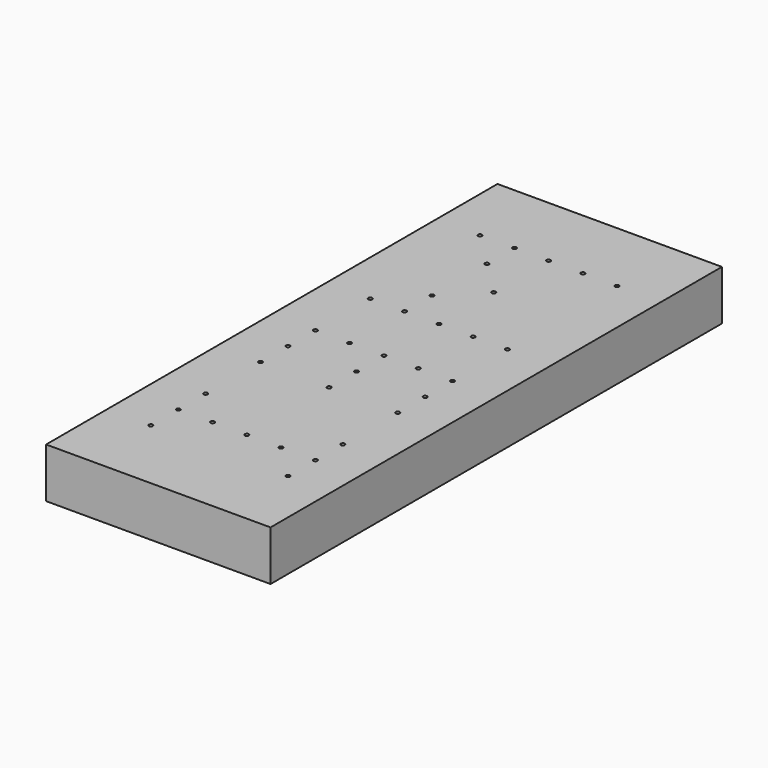
from build123d import *

# Parameters (mm, degrees)
F0_W     = 114.3
F0_H     = 287.3375
F1_DEPTH = 25.4


with BuildPart() as f1:
    # F0 (on Top) → F1 (new body)
    with BuildSketch(Plane.XY):
        with Locations((-34.925, 47.539747)):
            Rectangle(F0_W, F0_H)
        with BuildLine():
            ThreePointArc((-68.834, -57.235253), (-70.56842, -57.953674), (-69.85, -56.219253))
            ThreePointArc((-69.85, -56.219253), (-69.13158, -56.516833), (-68.834, -57.235253))
        make_face(mode=Mode.SUBTRACT)
        with BuildLine():
            ThreePointArc((-69.85, -38.756753), (-69.13158, -39.054333), (-68.834, -39.772753))
            ThreePointArc((-68.834, -39.772753), (-69.13158, -40.491174), (-69.85, -40.788753))
            ThreePointArc((-69.85, -40.788753), (-70.866, -39.772753), (-69.85, -38.756753))
        make_face(mode=Mode.SUBTRACT)
        with BuildLine():
            ThreePointArc((-51.3715, -39.772753), (-52.3875, -40.788753), (-53.4035, -39.772753))
            ThreePointArc((-53.4035, -39.772753), (-52.3875, -38.756753), (-51.3715, -39.772753))
        make_face(mode=Mode.SUBTRACT)
        with BuildLine():
            ThreePointArc((-68.834, -22.310253), (-69.13158, -23.028674), (-69.85, -23.326253))
            ThreePointArc((-69.85, -23.326253), (-70.56842, -21.591833), (-68.834, -22.310253))
        make_face(mode=Mode.SUBTRACT)
        with BuildLine():
            ThreePointArc((-68.834, 12.614747), (-70.56842, 11.896326), (-69.85, 13.630747))
            ThreePointArc((-69.85, 13.630747), (-69.13158, 13.333167), (-68.834, 12.614747))
        make_face(mode=Mode.SUBTRACT)
        with BuildLine():
            ThreePointArc((-69.85, 29.061247), (-70.866, 30.077247), (-69.85, 31.093247))
            ThreePointArc((-69.85, 31.093247), (-69.13158, 30.795667), (-68.834, 30.077247))
            ThreePointArc((-68.834, 30.077247), (-69.13158, 29.358826), (-69.85, 29.061247))
        make_face(mode=Mode.SUBTRACT)
        with BuildLine():
            ThreePointArc((-33.909, -39.772753), (-34.925, -40.788753), (-35.941, -39.772753))
            ThreePointArc((-35.941, -39.772753), (-34.925, -38.756753), (-33.909, -39.772753))
        make_face(mode=Mode.SUBTRACT)
        with BuildLine():
            ThreePointArc((-16.4465, -39.772753), (-17.4625, -40.788753), (-18.4785, -39.772753))
            ThreePointArc((-18.4785, -39.772753), (-17.4625, -38.756753), (-16.4465, -39.772753))
        make_face(mode=Mode.SUBTRACT)
        with BuildLine():
            ThreePointArc((1.016, -57.235253), (-0.71842, -57.953674), (0, -56.219253))
            ThreePointArc((0, -56.219253), (0.71842, -56.516833), (1.016, -57.235253))
        make_face(mode=Mode.SUBTRACT)
        with BuildLine():
            ThreePointArc((0, -40.788753), (-0.71842, -40.491174), (-1.016, -39.772753))
            ThreePointArc((-1.016, -39.772753), (-0.71842, -39.054333), (0, -38.756753))
            ThreePointArc((0, -38.756753), (0.71842, -39.054333), (1.016, -39.772753))
            ThreePointArc((1.016, -39.772753), (0.71842, -40.491174), (0, -40.788753))
        make_face(mode=Mode.SUBTRACT)
        with BuildLine():
            ThreePointArc((-33.909, 12.614747), (-35.64342, 11.896326), (-34.925, 13.630747))
            ThreePointArc((-34.925, 13.630747), (-34.20658, 13.333167), (-33.909, 12.614747))
        make_face(mode=Mode.SUBTRACT)
        with BuildLine():
            ThreePointArc((-34.925, 29.061247), (-35.941, 30.077247), (-34.925, 31.093247))
            ThreePointArc((-34.925, 31.093247), (-34.20658, 30.795667), (-33.909, 30.077247))
            ThreePointArc((-33.909, 30.077247), (-34.20658, 29.358826), (-34.925, 29.061247))
        make_face(mode=Mode.SUBTRACT)
        with BuildLine():
            ThreePointArc((1.016, -22.310253), (0.71842, -23.028674), (0, -23.326253))
            ThreePointArc((0, -23.326253), (-0.71842, -21.591833), (1.016, -22.310253))
        make_face(mode=Mode.SUBTRACT)
        with BuildLine():
            ThreePointArc((1.016, 12.614747), (-0.71842, 11.896326), (0, 13.630747))
            ThreePointArc((0, 13.630747), (0.71842, 13.333167), (1.016, 12.614747))
        make_face(mode=Mode.SUBTRACT)
        with BuildLine():
            ThreePointArc((0, 29.061247), (-1.016, 30.077247), (0, 31.093247))
            ThreePointArc((0, 31.093247), (0.71842, 30.795667), (1.016, 30.077247))
            ThreePointArc((1.016, 30.077247), (0.71842, 29.358826), (0, 29.061247))
        make_face(mode=Mode.SUBTRACT)
        with BuildLine():
            ThreePointArc((-69.85, 46.523747), (-70.56842, 48.258167), (-68.834, 47.539747))
            ThreePointArc((-68.834, 47.539747), (-69.13158, 46.821326), (-69.85, 46.523747))
        make_face(mode=Mode.SUBTRACT)
        with BuildLine():
            ThreePointArc((-68.834, 82.464747), (-70.788662, 82.07594), (-69.13158, 83.183167))
            ThreePointArc((-69.13158, 83.183167), (-68.911338, 82.853553), (-68.834, 82.464747))
        make_face(mode=Mode.SUBTRACT)
        with BuildLine():
            ThreePointArc((-53.4035, 47.539747), (-52.3875, 48.555747), (-51.3715, 47.539747))
            ThreePointArc((-51.3715, 47.539747), (-52.3875, 46.523747), (-53.4035, 47.539747))
        make_face(mode=Mode.SUBTRACT)
        with BuildLine():
            ThreePointArc((-51.3715, 82.464747), (-52.3875, 81.448747), (-53.4035, 82.464747))
            ThreePointArc((-53.4035, 82.464747), (-52.3875, 83.480747), (-51.3715, 82.464747))
        make_face(mode=Mode.SUBTRACT)
        with BuildLine():
            ThreePointArc((-53.105917, 99.208829), (-53.105917, 100.64567), (-51.669076, 100.64567))
            ThreePointArc((-51.669076, 100.64567), (-51.448835, 100.316056), (-51.371497, 99.92725))
            ThreePointArc((-51.371497, 99.92725), (-51.99869, 98.988588), (-53.105917, 99.208829))
        make_face(mode=Mode.SUBTRACT)
        with BuildLine():
            ThreePointArc((-69.13158, 151.596326), (-70.788662, 152.703553), (-68.834, 152.314747))
            ThreePointArc((-68.834, 152.314747), (-68.911338, 151.92594), (-69.13158, 151.596326))
        make_face(mode=Mode.SUBTRACT)
        with BuildLine():
            ThreePointArc((-51.669076, 134.133823), (-53.105917, 134.133823), (-53.105917, 135.570664))
            ThreePointArc((-53.105917, 135.570664), (-51.99869, 135.790905), (-51.371497, 134.852244))
            ThreePointArc((-51.371497, 134.852244), (-51.448835, 134.463437), (-51.669076, 134.133823))
        make_face(mode=Mode.SUBTRACT)
        with BuildLine():
            ThreePointArc((-51.3715, 152.314747), (-52.3875, 151.298747), (-53.4035, 152.314747))
            ThreePointArc((-53.4035, 152.314747), (-52.3875, 153.330747), (-51.3715, 152.314747))
        make_face(mode=Mode.SUBTRACT)
        with BuildLine():
            ThreePointArc((-35.941, 47.539747), (-34.925, 48.555747), (-33.909, 47.539747))
            ThreePointArc((-33.909, 47.539747), (-34.20658, 46.821326), (-34.925, 46.523747))
            ThreePointArc((-34.925, 46.523747), (-35.64342, 46.821326), (-35.941, 47.539747))
        make_face(mode=Mode.SUBTRACT)
        with BuildLine():
            ThreePointArc((-33.909, 82.464747), (-34.925, 81.448747), (-35.941, 82.464747))
            ThreePointArc((-35.941, 82.464747), (-34.925, 83.480747), (-33.909, 82.464747))
        make_face(mode=Mode.SUBTRACT)
        with BuildLine():
            ThreePointArc((-16.4465, 47.539747), (-17.4625, 46.523747), (-18.4785, 47.539747))
            ThreePointArc((-18.4785, 47.539747), (-17.4625, 48.555747), (-16.4465, 47.539747))
        make_face(mode=Mode.SUBTRACT)
        with BuildLine():
            ThreePointArc((-16.4465, 82.464747), (-17.4625, 81.448747), (-18.4785, 82.464747))
            ThreePointArc((-18.4785, 82.464747), (-17.4625, 83.480747), (-16.4465, 82.464747))
        make_face(mode=Mode.SUBTRACT)
        with BuildLine():
            ThreePointArc((-35.64342, 116.671326), (-35.941, 117.389747), (-35.64342, 118.108167))
            ThreePointArc((-35.64342, 118.108167), (-34.536194, 118.328408), (-33.909, 117.389747))
            ThreePointArc((-33.909, 117.389747), (-34.536194, 116.451085), (-35.64342, 116.671326))
        make_face(mode=Mode.SUBTRACT)
        with BuildLine():
            ThreePointArc((0, 46.523747), (-0.71842, 46.821326), (-1.016, 47.539747))
            ThreePointArc((-1.016, 47.539747), (0, 48.555747), (1.016, 47.539747))
            ThreePointArc((1.016, 47.539747), (0.71842, 46.821326), (0, 46.523747))
        make_face(mode=Mode.SUBTRACT)
        with BuildLine():
            ThreePointArc((1.016, 82.464747), (0, 81.448747), (-1.016, 82.464747))
            ThreePointArc((-1.016, 82.464747), (0, 83.480747), (1.016, 82.464747))
        make_face(mode=Mode.SUBTRACT)
        with BuildLine():
            ThreePointArc((-33.909, 152.314747), (-34.925, 151.298747), (-35.941, 152.314747))
            ThreePointArc((-35.941, 152.314747), (-34.925, 153.330747), (-33.909, 152.314747))
        make_face(mode=Mode.SUBTRACT)
        with BuildLine():
            ThreePointArc((-16.4465, 152.314747), (-17.4625, 151.298747), (-18.4785, 152.314747))
            ThreePointArc((-18.4785, 152.314747), (-17.4625, 153.330747), (-16.4465, 152.314747))
        make_face(mode=Mode.SUBTRACT)
        with BuildLine():
            ThreePointArc((1.016, 152.314747), (0, 151.298747), (-1.016, 152.314747))
            ThreePointArc((-1.016, 152.314747), (0, 153.330747), (1.016, 152.314747))
        make_face(mode=Mode.SUBTRACT)
    extrude(amount=F1_DEPTH)


solid = f1.part
